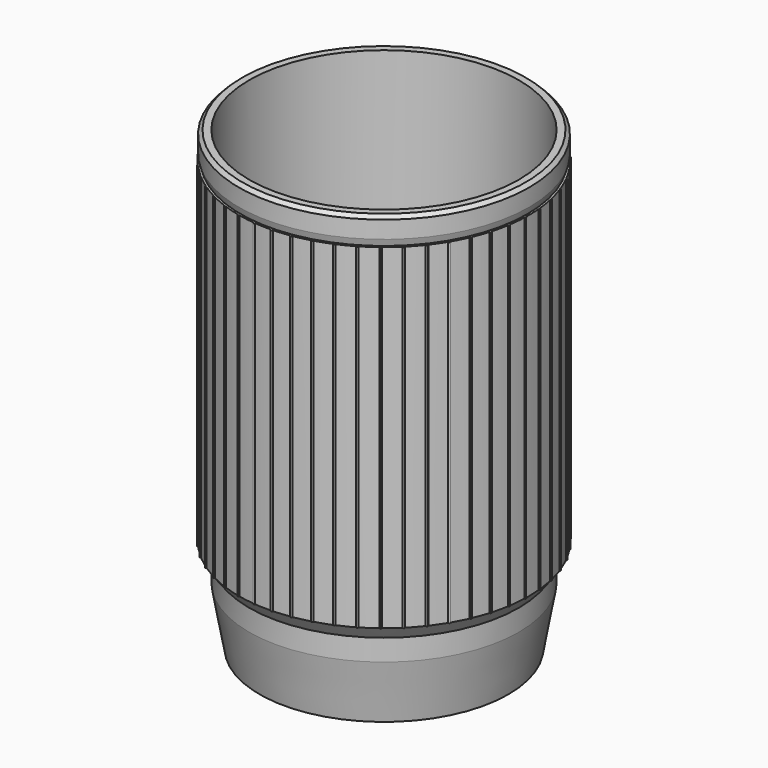
from build123d import *

# Parameters (mm, degrees)
F3_DEPTH = 97
F4_SIZE  = 1


with BuildPart() as f1:
    # F0 (on Front) → F1 (revolve)
    with BuildSketch(Plane.XZ):
        Polygon((0, -2), (0, 0), (-28.3, 0), (-28.3, 9.8), (-33.3, 14.8), (-36, 14.8), (-36, 21), (-39, 24.981719), (-39, 130), (-42, 130), (-42, 124), (-41.4, 122), (-42, 122), (-42, 24.981719), (-39, 21), (-39, 14.8), (-36, -2), (-28.3, -2), align=None)
    revolve(axis=Axis((0, 0, -1), (0, 0, -1)))

    # F2 (on face) → F3 (join)
    with BuildSketch(Plane.XY.offset(122)):
        with BuildLine():
            ThreePointArc((21.5558, -36.218189), (21.545517, -36.141676), (21.515398, -36.070593))
            ThreePointArc((21.515398, -36.070593), (21.266, -36.218189), (21.015591, -36.364061))
            ThreePointArc((21.015591, -36.364061), (21.341549, -36.497968), (21.5558, -36.218189))
        make_face()
        with BuildLine():
            ThreePointArc((21.015591, -36.364061), (21.266, -36.218189), (21.515398, -36.070593))
            ThreePointArc((21.515398, -36.070593), (21.119265, -35.968284), (21.015591, -36.364061))
        make_face()
        with BuildLine():
            ThreePointArc((25.407502, -33.443368), (25.637654, -33.267261), (25.866586, -33.089571))
            ThreePointArc((25.866586, -33.089571), (25.460755, -33.037718), (25.407502, -33.443368))
        make_face()
        with BuildLine():
            ThreePointArc((25.927454, -33.267261), (25.911815, -33.173348), (25.866586, -33.089571))
            ThreePointArc((25.866586, -33.089571), (25.637654, -33.267261), (25.407502, -33.443368))
            ThreePointArc((25.407502, -33.443368), (25.730621, -33.541744), (25.927454, -33.267261))
        make_face()
        with BuildLine():
            ThreePointArc((29.398722, -29.995252), (29.604987, -29.791689), (29.809844, -29.586707))
            ThreePointArc((29.809844, -29.586707), (29.400713, -29.586127), (29.398722, -29.995252))
        make_face()
        with BuildLine():
            ThreePointArc((29.894787, -29.791689), (29.87271, -29.680746), (29.809844, -29.586707))
            ThreePointArc((29.809844, -29.586707), (29.604987, -29.791689), (29.398722, -29.995252))
            ThreePointArc((29.398722, -29.995252), (29.715005, -30.059793), (29.894787, -29.791689))
        make_face()
        with BuildLine():
            ThreePointArc((32.926306, -26.074094), (33.105432, -25.846284), (33.282982, -25.617243))
            ThreePointArc((33.282982, -25.617243), (32.877005, -25.667945), (32.926306, -26.074094))
        make_face()
        with BuildLine():
            ThreePointArc((33.395231, -25.846284), (33.36566, -25.71875), (33.282982, -25.617243))
            ThreePointArc((33.282982, -25.617243), (33.105432, -25.846284), (32.926306, -26.074094))
            ThreePointArc((32.926306, -26.074094), (33.232067, -26.10695), (33.395231, -25.846284))
        make_face()
        with BuildLine():
            ThreePointArc((35.934623, -21.741732), (36.083784, -21.493267), (36.231227, -21.24378))
            ThreePointArc((36.231227, -21.24378), (35.834806, -21.344964), (35.934623, -21.741732))
        make_face()
        with BuildLine():
            ThreePointArc((35.934623, -21.741732), (36.226537, -21.745468), (36.373583, -21.493267))
            ThreePointArc((36.373583, -21.493267), (36.335491, -21.349645), (36.231227, -21.24378))
            ThreePointArc((36.231227, -21.24378), (36.083784, -21.493267), (35.934623, -21.741732))
        make_face()
        with BuildLine():
            ThreePointArc((38.608085, -16.535289), (38.227472, -16.68536), (38.376229, -17.066489))
            ThreePointArc((38.376229, -17.066489), (38.493073, -16.801289), (38.608085, -16.535289))
        make_face()
        with BuildLine():
            ThreePointArc((38.608085, -16.535289), (38.493073, -16.801289), (38.376229, -17.066489))
            ThreePointArc((38.376229, -17.066489), (38.65138, -17.044029), (38.782873, -16.801289))
            ThreePointArc((38.782873, -16.801289), (38.735265, -16.642145), (38.608085, -16.535289))
        make_face()
        with BuildLine():
            ThreePointArc((40.37607, -11.566027), (40.295304, -11.844345), (40.212619, -12.122098))
            ThreePointArc((40.212619, -12.122098), (40.46854, -12.076665), (40.585103, -11.844345))
            ThreePointArc((40.585103, -11.844345), (40.527025, -11.670308), (40.37607, -11.566027))
        make_face()
        with BuildLine():
            ThreePointArc((40.37607, -11.566027), (40.017267, -11.762619), (40.212619, -12.122098))
            ThreePointArc((40.212619, -12.122098), (40.295304, -11.844345), (40.37607, -11.566027))
        make_face()
        with BuildLine():
            ThreePointArc((41.5073, -6.414362), (41.462053, -6.700608), (41.414832, -6.986534))
            ThreePointArc((41.414832, -6.986534), (41.649535, -6.921592), (41.751853, -6.700608))
            ThreePointArc((41.751853, -6.700608), (41.682389, -6.512364), (41.5073, -6.414362))
        make_face()
        with BuildLine():
            ThreePointArc((41.5073, -6.414362), (41.175966, -6.654374), (41.414832, -6.986534))
            ThreePointArc((41.414832, -6.986534), (41.462053, -6.700608), (41.5073, -6.414362))
        make_face()
        with BuildLine():
            ThreePointArc((41.983935, -1.161539), (41.685295, -1.441185), (41.963909, -1.740788))
            ThreePointArc((41.963909, -1.740788), (41.974921, -1.451198), (41.983935, -1.161539))
        make_face()
        with BuildLine():
            ThreePointArc((41.798459, 4.109602), (41.537222, 3.794732), (41.85119, 3.532411))
            ThreePointArc((41.85119, 3.532411), (41.82582, 3.821098), (41.798459, 4.109602))
        make_face()
        with BuildLine():
            ThreePointArc((34.648453, 23.737833), (34.811418, 23.498196), (34.972725, 23.25744))
            ThreePointArc((34.972725, 23.25744), (35.067084, 23.361746), (35.101217, 23.498196))
            ThreePointArc((35.101217, 23.498196), (34.946984, 23.754331), (34.648453, 23.737833))
        make_face()
        with BuildLine():
            ThreePointArc((37.350379, 19.208051), (37.482024, 18.949878), (37.611885, 18.690803))
            ThreePointArc((37.611885, 18.690803), (37.728618, 18.797645), (37.771823, 18.949878))
            ThreePointArc((37.771823, 18.949878), (37.633406, 19.196996), (37.350379, 19.208051))
        make_face()
        with BuildLine():
            ThreePointArc((39.463267, 14.375346), (39.288543, 14.005401), (39.657883, 13.829401))
            ThreePointArc((39.657883, 13.829401), (39.561517, 14.102709), (39.463267, 14.375346))
        make_face()
        with BuildLine():
            ThreePointArc((40.953796, 9.315933), (40.734083, 8.970804), (41.078452, 8.749902))
            ThreePointArc((41.078452, 8.749902), (41.0171, 9.033132), (40.953796, 9.315933))
        make_face()
        with BuildLine():
            ThreePointArc((39.463267, 14.375346), (39.561517, 14.102709), (39.657883, 13.829401))
            ThreePointArc((39.657883, 13.829401), (39.798065, 13.935292), (39.851316, 14.102709))
            ThreePointArc((39.851316, 14.102709), (39.728116, 14.339834), (39.463267, 14.375346))
        make_face()
        with BuildLine():
            ThreePointArc((37.350379, 19.208051), (37.223399, 18.819124), (37.611885, 18.690803))
            ThreePointArc((37.611885, 18.690803), (37.482024, 18.949878), (37.350379, 19.208051))
        make_face()
        with BuildLine():
            ThreePointArc((40.953796, 9.315933), (41.0171, 9.033132), (41.078452, 8.749902))
            ThreePointArc((41.078452, 8.749902), (41.24267, 8.851193), (41.3069, 9.033132))
            ThreePointArc((41.3069, 9.033132), (41.198261, 9.259328), (40.953796, 9.315933))
        make_face()
        with BuildLine():
            ThreePointArc((41.798459, 4.109602), (41.82582, 3.821098), (41.85119, 3.532411))
            ThreePointArc((41.85119, 3.532411), (42.03952, 3.625354), (42.115619, 3.821098))
            ThreePointArc((42.115619, 3.821098), (42.020826, 4.035472), (41.798459, 4.109602))
        make_face()
        with BuildLine():
            ThreePointArc((41.983935, -1.161539), (41.974921, -1.451198), (41.963909, -1.740788))
            ThreePointArc((41.963909, -1.740788), (42.175909, -1.659974), (42.264721, -1.451198))
            ThreePointArc((42.264721, -1.451198), (42.183003, -1.249491), (41.983935, -1.161539))
        make_face()
        with BuildLine():
            ThreePointArc((34.648453, 23.737833), (34.571219, 23.336059), (34.972725, 23.25744))
            ThreePointArc((34.972725, 23.25744), (34.811418, 23.498196), (34.648453, 23.737833))
        make_face()
        with BuildLine():
            ThreePointArc((27.656549, 31.608785), (27.873989, 31.417204), (28.090103, 31.224127))
            ThreePointArc((28.090103, 31.224127), (28.144741, 31.313874), (28.163789, 31.417204))
            ThreePointArc((28.163789, 31.417204), (27.976384, 31.688311), (27.656549, 31.608785))
        make_face()
        with BuildLine():
            ThreePointArc((27.656549, 31.608785), (27.681659, 31.200426), (28.090103, 31.224127))
            ThreePointArc((28.090103, 31.224127), (27.873989, 31.417204), (27.656549, 31.608785))
        make_face()
        with BuildLine():
            ThreePointArc((31.4001, 27.893256), (31.373831, 27.48497), (31.782025, 27.457293))
            ThreePointArc((31.782025, 27.457293), (31.591814, 27.675933), (31.4001, 27.893256))
        make_face()
        with BuildLine():
            ThreePointArc((31.4001, 27.893256), (31.591814, 27.675933), (31.782025, 27.457293))
            ThreePointArc((31.782025, 27.457293), (31.855544, 27.555806), (31.881614, 27.675933))
            ThreePointArc((31.881614, 27.675933), (31.71103, 27.940075), (31.4001, 27.893256))
        make_face()
        with BuildLine():
            ThreePointArc((23.476837, 34.825825), (23.552931, 34.423833), (23.955183, 34.498539))
            ThreePointArc((23.955183, 34.498539), (23.716575, 34.663007), (23.476837, 34.825825))
        make_face()
        with BuildLine():
            ThreePointArc((23.476837, 34.825825), (23.716575, 34.663007), (23.955183, 34.498539))
            ThreePointArc((23.955183, 34.498539), (23.99328, 34.576882), (24.006374, 34.663007))
            ThreePointArc((24.006374, 34.663007), (23.801745, 34.940009), (23.476837, 34.825825))
        make_face()
        with BuildLine():
            ThreePointArc((18.926882, 37.493641), (19.052758, 37.104356), (19.442476, 37.228889))
            ThreePointArc((19.442476, 37.228889), (19.185136, 37.362154), (18.926882, 37.493641))
        make_face()
        with BuildLine():
            ThreePointArc((18.926882, 37.493641), (19.185136, 37.362154), (19.442476, 37.228889))
            ThreePointArc((19.442476, 37.228889), (19.466703, 37.293573), (19.474935, 37.362154))
            ThreePointArc((19.474935, 37.362154), (19.252745, 37.643957), (18.926882, 37.493641))
        make_face()
        with BuildLine():
            ThreePointArc((14.078439, 39.57016), (14.252113, 39.199721), (14.623149, 39.372116))
            ThreePointArc((14.623149, 39.372116), (14.351135, 39.472078), (14.078439, 39.57016))
        make_face()
        with BuildLine():
            ThreePointArc((14.078439, 39.57016), (14.351135, 39.472078), (14.623149, 39.372116))
            ThreePointArc((14.623149, 39.372116), (14.636454, 39.421312), (14.640935, 39.472078))
            ThreePointArc((14.640935, 39.472078), (14.400917, 39.757569), (14.078439, 39.57016))
        make_face()
        with BuildLine():
            ThreePointArc((9.00797, 41.022634), (9.226703, 40.676883), (9.573206, 40.894422))
            ThreePointArc((9.573206, 40.894422), (9.290809, 40.959503), (9.00797, 41.022634))
        make_face()
        with BuildLine():
            ThreePointArc((9.00797, 41.022634), (9.290809, 40.959503), (9.573206, 40.894422))
            ThreePointArc((9.573206, 40.894422), (9.578752, 40.926752), (9.580609, 40.959503))
            ThreePointArc((9.580609, 40.959503), (9.322566, 41.247557), (9.00797, 41.022634))
        make_face()
        with BuildLine():
            ThreePointArc((-0.897493, 41.983215), (-0.897516, 41.986812), (-0.897583, 41.990408))
            ThreePointArc((-0.897583, 41.990408), (-1.187293, 41.983215), (-1.476946, 41.974023))
            ThreePointArc((-1.476946, 41.974023), (-1.182696, 41.693452), (-0.897493, 41.983215))
        make_face()
        with BuildLine():
            ThreePointArc((-1.476946, 41.974023), (-1.187293, 41.983215), (-0.897583, 41.990408))
            ThreePointArc((-0.897583, 41.990408), (-1.195485, 42.272898), (-1.476946, 41.974023))
        make_face()
        with BuildLine():
            ThreePointArc((3.79544, 41.828156), (4.055782, 41.512546), (4.372289, 41.771798))
            ThreePointArc((4.372289, 41.771798), (4.083962, 41.800972), (3.79544, 41.828156))
        make_face()
        with BuildLine():
            ThreePointArc((3.79544, 41.828156), (4.083962, 41.800972), (4.372289, 41.771798))
            ThreePointArc((4.372289, 41.771798), (4.373393, 41.786366), (4.373761, 41.800972))
            ThreePointArc((4.373761, 41.800972), (4.097569, 42.090452), (3.79544, 41.828156))
        make_face()
        with BuildLine():
            ThreePointArc((-16.26917, 38.597934), (-16.274999, 38.655766), (-16.292251, 38.711272))
            ThreePointArc((-16.292251, 38.711272), (-16.558969, 38.597934), (-16.824898, 38.48276))
            ThreePointArc((-16.824898, 38.48276), (-16.500158, 38.314165), (-16.26917, 38.597934))
        make_face()
        with BuildLine():
            ThreePointArc((-16.824898, 38.48276), (-16.558969, 38.597934), (-16.292251, 38.711272))
            ThreePointArc((-16.292251, 38.711272), (-16.673226, 38.86426), (-16.824898, 38.48276))
        make_face()
        with BuildLine():
            ThreePointArc((-11.300993, 40.368967), (-11.303751, 40.408854), (-11.311973, 40.447982))
            ThreePointArc((-11.311973, 40.447982), (-11.590793, 40.368967), (-11.86906, 40.288031))
            ThreePointArc((-11.86906, 40.288031), (-11.549916, 40.082065), (-11.300993, 40.368967))
        make_face()
        with BuildLine():
            ThreePointArc((-11.86906, 40.288031), (-11.590793, 40.368967), (-11.311973, 40.447982))
            ThreePointArc((-11.311973, 40.447982), (-11.670769, 40.647513), (-11.86906, 40.288031))
        make_face()
        with BuildLine():
            ThreePointArc((-6.150023, 41.503358), (-6.150843, 41.525142), (-6.153298, 41.546804))
            ThreePointArc((-6.153298, 41.546804), (-6.439823, 41.503358), (-6.72604, 41.457935))
            ThreePointArc((-6.72604, 41.457935), (-6.417041, 41.214455), (-6.150023, 41.503358))
        make_face()
        with BuildLine():
            ThreePointArc((-6.72604, 41.457935), (-6.439823, 41.503358), (-6.153298, 41.546804))
            ThreePointArc((-6.153298, 41.546804), (-6.484257, 41.78973), (-6.72604, 41.457935))
        make_face()
        with BuildLine():
            ThreePointArc((-29.315188, 29.791689), (-29.336884, 29.901707), (-29.398722, 29.995252))
            ThreePointArc((-29.398722, 29.995252), (-29.604987, 29.791689), (-29.809844, 29.586707))
            ThreePointArc((-29.809844, 29.586707), (-29.494045, 29.523966), (-29.315188, 29.791689))
        make_face()
        with BuildLine():
            ThreePointArc((-29.809844, 29.586707), (-29.604987, 29.791689), (-29.398722, 29.995252))
            ThreePointArc((-29.398722, 29.995252), (-29.809261, 29.997251), (-29.809844, 29.586707))
        make_face()
        with BuildLine():
            ThreePointArc((-25.347855, 33.267261), (-25.363172, 33.360228), (-25.407502, 33.443368))
            ThreePointArc((-25.407502, 33.443368), (-25.637654, 33.267261), (-25.866586, 33.089571))
            ThreePointArc((-25.866586, 33.089571), (-25.543741, 32.993101), (-25.347855, 33.267261))
        make_face()
        with BuildLine():
            ThreePointArc((-25.866586, 33.089571), (-25.637654, 33.267261), (-25.407502, 33.443368))
            ThreePointArc((-25.407502, 33.443368), (-25.814554, 33.496805), (-25.866586, 33.089571))
        make_face()
        with BuildLine():
            ThreePointArc((-20.976201, 36.218189), (-20.986222, 36.293737), (-21.015591, 36.364061))
            ThreePointArc((-21.015591, 36.364061), (-21.266, 36.218189), (-21.515398, 36.070593))
            ThreePointArc((-21.515398, 36.070593), (-21.189487, 35.938673), (-20.976201, 36.218189))
        make_face()
        with BuildLine():
            ThreePointArc((-21.515398, 36.070593), (-21.266, 36.218189), (-21.015591, 36.364061))
            ThreePointArc((-21.015591, 36.364061), (-21.412736, 36.468094), (-21.515398, 36.070593))
        make_face()
        with BuildLine():
            ThreePointArc((-33.282982, 25.617243), (-33.105432, 25.846284), (-32.926306, 26.074094))
            ThreePointArc((-32.926306, 26.074094), (-33.333859, 26.024623), (-33.282982, 25.617243))
        make_face()
        with BuildLine():
            ThreePointArc((-32.815633, 25.846284), (-32.844765, 25.972919), (-32.926306, 26.074094))
            ThreePointArc((-32.926306, 26.074094), (-33.105432, 25.846284), (-33.282982, 25.617243))
            ThreePointArc((-33.282982, 25.617243), (-32.977898, 25.586055), (-32.815633, 25.846284))
        make_face()
        with BuildLine():
            ThreePointArc((-35.934623, 21.741732), (-36.083784, 21.493267), (-36.231227, 21.24378))
            ThreePointArc((-36.231227, 21.24378), (-35.940162, 21.24156), (-35.793985, 21.493267))
            ThreePointArc((-35.793985, 21.493267), (-35.831583, 21.63602), (-35.934623, 21.741732))
        make_face()
        with BuildLine():
            ThreePointArc((-35.934623, 21.741732), (-36.332761, 21.64157), (-36.231227, 21.24378))
            ThreePointArc((-36.231227, 21.24378), (-36.083784, 21.493267), (-35.934623, 21.741732))
        make_face()
        with BuildLine():
            ThreePointArc((-38.376229, 17.066489), (-38.758675, 16.917218), (-38.608085, 16.535289))
            ThreePointArc((-38.608085, 16.535289), (-38.493073, 16.801289), (-38.376229, 17.066489))
        make_face()
        with BuildLine():
            ThreePointArc((-38.376229, 17.066489), (-38.493073, 16.801289), (-38.608085, 16.535289))
            ThreePointArc((-38.608085, 16.535289), (-38.33393, 16.559097), (-38.203274, 16.801289))
            ThreePointArc((-38.203274, 16.801289), (-38.250334, 16.959596), (-38.376229, 17.066489))
        make_face()
        with BuildLine():
            ThreePointArc((-40.212619, 12.122098), (-40.295304, 11.844345), (-40.37607, 11.566027))
            ThreePointArc((-40.37607, 11.566027), (-40.121267, 11.612623), (-40.005504, 11.844345))
            ThreePointArc((-40.005504, 11.844345), (-40.062983, 12.017581), (-40.212619, 12.122098))
        make_face()
        with BuildLine():
            ThreePointArc((-40.212619, 12.122098), (-40.573341, 11.92607), (-40.37607, 11.566027))
            ThreePointArc((-40.37607, 11.566027), (-40.295304, 11.844345), (-40.212619, 12.122098))
        make_face()
        with BuildLine():
            ThreePointArc((-41.414832, 6.986534), (-41.462053, 6.700608), (-41.5073, 6.414362))
            ThreePointArc((-41.5073, 6.414362), (-41.27381, 6.480271), (-41.172254, 6.700608))
            ThreePointArc((-41.172254, 6.700608), (-41.241069, 6.88809), (-41.414832, 6.986534))
        make_face()
        with BuildLine():
            ThreePointArc((-41.414832, 6.986534), (-41.748141, 6.746842), (-41.5073, 6.414362))
            ThreePointArc((-41.5073, 6.414362), (-41.462053, 6.700608), (-41.414832, 6.986534))
        make_face()
        with BuildLine():
            ThreePointArc((-41.963909, 1.740788), (-42.264548, 1.461211), (-41.983935, 1.161539))
            ThreePointArc((-41.983935, 1.161539), (-41.974921, 1.451198), (-41.963909, 1.740788))
        make_face()
        with BuildLine():
            ThreePointArc((-41.963909, 1.740788), (-41.974921, 1.451198), (-41.983935, 1.161539))
            ThreePointArc((-41.983935, 1.161539), (-41.773214, 1.243117), (-41.685122, 1.451198))
            ThreePointArc((-41.685122, 1.451198), (-41.766145, 1.652186), (-41.963909, 1.740788))
        make_face()
        with BuildLine():
            ThreePointArc((-41.85119, -3.532411), (-42.114417, -3.847463), (-41.798459, -4.109602))
            ThreePointArc((-41.798459, -4.109602), (-41.82582, -3.821098), (-41.85119, -3.532411))
        make_face()
        with BuildLine():
            ThreePointArc((-41.85119, -3.532411), (-41.82582, -3.821098), (-41.798459, -4.109602))
            ThreePointArc((-41.798459, -4.109602), (-41.611445, -4.016103), (-41.536021, -3.821098))
            ThreePointArc((-41.536021, -3.821098), (-41.630076, -3.607397), (-41.85119, -3.532411))
        make_face()
        with BuildLine():
            ThreePointArc((-41.078452, -8.749902), (-41.300118, -9.095461), (-40.953796, -9.315933))
            ThreePointArc((-40.953796, -9.315933), (-41.0171, -9.033132), (-41.078452, -8.749902))
        make_face()
        with BuildLine():
            ThreePointArc((-41.078452, -8.749902), (-41.0171, -9.033132), (-40.953796, -9.315933))
            ThreePointArc((-40.953796, -9.315933), (-40.790904, -9.214293), (-40.727301, -9.033132))
            ThreePointArc((-40.727301, -9.033132), (-40.835161, -8.807563), (-41.078452, -8.749902))
        make_face()
        with BuildLine():
            ThreePointArc((-39.657883, -13.829401), (-39.83449, -14.200018), (-39.463267, -14.375346))
            ThreePointArc((-39.463267, -14.375346), (-39.561517, -14.102709), (-39.657883, -13.829401))
        make_face()
        with BuildLine():
            ThreePointArc((-39.657883, -13.829401), (-39.561517, -14.102709), (-39.463267, -14.375346))
            ThreePointArc((-39.463267, -14.375346), (-39.324392, -14.269309), (-39.271717, -14.102709))
            ThreePointArc((-39.271717, -14.102709), (-39.3941, -13.866161), (-39.657883, -13.829401))
        make_face()
        with BuildLine():
            ThreePointArc((-37.611885, -18.690803), (-37.740649, -19.080632), (-37.350379, -19.208051))
            ThreePointArc((-37.350379, -19.208051), (-37.482024, -18.949878), (-37.611885, -18.690803))
        make_face()
        with BuildLine():
            ThreePointArc((-37.611885, -18.690803), (-37.482024, -18.949878), (-37.350379, -19.208051))
            ThreePointArc((-37.350379, -19.208051), (-37.234906, -19.10126), (-37.192225, -18.949878))
            ThreePointArc((-37.192225, -18.949878), (-37.329791, -18.703284), (-37.611885, -18.690803))
        make_face()
        with BuildLine():
            ThreePointArc((-34.972725, -23.25744), (-34.811418, -23.498196), (-34.648453, -23.737833))
            ThreePointArc((-34.648453, -23.737833), (-34.555282, -23.633762), (-34.521618, -23.498196))
            ThreePointArc((-34.521618, -23.498196), (-34.674968, -23.24253), (-34.972725, -23.25744))
        make_face()
        with BuildLine():
            ThreePointArc((-34.972725, -23.25744), (-35.051616, -23.660333), (-34.648453, -23.737833))
            ThreePointArc((-34.648453, -23.737833), (-34.811418, -23.498196), (-34.972725, -23.25744))
        make_face()
        with BuildLine():
            ThreePointArc((16.848768, -38.597934), (16.842738, -38.539123), (16.824898, -38.48276))
            ThreePointArc((16.824898, -38.48276), (16.558969, -38.597934), (16.292251, -38.711272))
            ThreePointArc((16.292251, -38.711272), (16.616801, -38.881905), (16.848768, -38.597934))
        make_face()
        with BuildLine():
            ThreePointArc((16.292251, -38.711272), (16.558969, -38.597934), (16.824898, -38.48276))
            ThreePointArc((16.824898, -38.48276), (16.444712, -38.331609), (16.292251, -38.711272))
        make_face()
        with BuildLine():
            ThreePointArc((11.880592, -40.368967), (11.877694, -40.32809), (11.86906, -40.288031))
            ThreePointArc((11.86906, -40.288031), (11.590793, -40.368967), (11.311973, -40.447982))
            ThreePointArc((11.311973, -40.447982), (11.63068, -40.656009), (11.880592, -40.368967))
        make_face()
        with BuildLine():
            ThreePointArc((11.311973, -40.447982), (11.590793, -40.368967), (11.86906, -40.288031))
            ThreePointArc((11.86906, -40.288031), (11.510816, -40.090422), (11.311973, -40.447982))
        make_face()
        with BuildLine():
            ThreePointArc((-4.372289, -41.771798), (-4.083962, -41.800972), (-3.79544, -41.828156))
            ThreePointArc((-3.79544, -41.828156), (-3.794482, -41.814579), (-3.794162, -41.800972))
            ThreePointArc((-3.794162, -41.800972), (-4.069356, -41.511541), (-4.372289, -41.771798))
        make_face()
        with BuildLine():
            ThreePointArc((-4.372289, -41.771798), (-4.112141, -42.089398), (-3.79544, -41.828156))
            ThreePointArc((-3.79544, -41.828156), (-4.083962, -41.800972), (-4.372289, -41.771798))
        make_face()
        with BuildLine():
            ThreePointArc((0.897583, -41.990408), (1.187293, -41.983215), (1.476946, -41.974023))
            ThreePointArc((1.476946, -41.974023), (1.1791, -41.693531), (0.897583, -41.990408))
        make_face()
        with BuildLine():
            ThreePointArc((1.477092, -41.983215), (1.477055, -41.978619), (1.476946, -41.974023))
            ThreePointArc((1.476946, -41.974023), (1.187293, -41.983215), (0.897583, -41.990408))
            ThreePointArc((0.897583, -41.990408), (1.190889, -42.272992), (1.477092, -41.983215))
        make_face()
        with BuildLine():
            ThreePointArc((6.153298, -41.546804), (6.439823, -41.503358), (6.72604, -41.457935))
            ThreePointArc((6.72604, -41.457935), (6.395388, -41.216985), (6.153298, -41.546804))
        make_face()
        with BuildLine():
            ThreePointArc((6.729622, -41.503358), (6.728725, -41.480576), (6.72604, -41.457935))
            ThreePointArc((6.72604, -41.457935), (6.439823, -41.503358), (6.153298, -41.546804))
            ThreePointArc((6.153298, -41.546804), (6.461607, -41.792337), (6.729622, -41.503358))
        make_face()
        with BuildLine():
            ThreePointArc((-9.573206, -40.894422), (-9.354916, -41.242123), (-9.00797, -41.022634))
            ThreePointArc((-9.00797, -41.022634), (-9.290809, -40.959503), (-9.573206, -40.894422))
        make_face()
        with BuildLine():
            ThreePointArc((-9.573206, -40.894422), (-9.290809, -40.959503), (-9.00797, -41.022634))
            ThreePointArc((-9.00797, -41.022634), (-9.002755, -40.991259), (-9.00101, -40.959503))
            ThreePointArc((-9.00101, -40.959503), (-9.258059, -40.67156), (-9.573206, -40.894422))
        make_face()
        with BuildLine():
            ThreePointArc((-14.623149, -39.372116), (-14.450158, -39.744434), (-14.078439, -39.57016))
            ThreePointArc((-14.078439, -39.57016), (-14.351135, -39.472078), (-14.623149, -39.372116))
        make_face()
        with BuildLine():
            ThreePointArc((-14.623149, -39.372116), (-14.351135, -39.472078), (-14.078439, -39.57016))
            ThreePointArc((-14.078439, -39.57016), (-14.065644, -39.521859), (-14.061336, -39.472078))
            ThreePointArc((-14.061336, -39.472078), (-14.30037, -39.186759), (-14.623149, -39.372116))
        make_face()
        with BuildLine():
            ThreePointArc((-31.782025, -27.457293), (-31.809797, -27.866897), (-31.4001, -27.893256))
            ThreePointArc((-31.4001, -27.893256), (-31.591814, -27.675933), (-31.782025, -27.457293))
        make_face()
        with BuildLine():
            ThreePointArc((-31.782025, -27.457293), (-31.591814, -27.675933), (-31.4001, -27.893256))
            ThreePointArc((-31.4001, -27.893256), (-31.327672, -27.795149), (-31.302015, -27.675933))
            ThreePointArc((-31.302015, -27.675933), (-31.471688, -27.412204), (-31.782025, -27.457293))
        make_face()
        with BuildLine():
            ThreePointArc((-28.090103, -31.224127), (-28.066319, -31.633982), (-27.656549, -31.608785))
            ThreePointArc((-27.656549, -31.608785), (-27.873989, -31.417204), (-28.090103, -31.224127))
        make_face()
        with BuildLine():
            ThreePointArc((-28.090103, -31.224127), (-27.873989, -31.417204), (-27.656549, -31.608785))
            ThreePointArc((-27.656549, -31.608785), (-27.602882, -31.519599), (-27.58419, -31.417204))
            ThreePointArc((-27.58419, -31.417204), (-27.770659, -31.146452), (-28.090103, -31.224127))
        make_face()
        with BuildLine():
            ThreePointArc((-23.955183, -34.498539), (-23.716575, -34.663007), (-23.476837, -34.825825))
            ThreePointArc((-23.476837, -34.825825), (-23.439573, -34.748178), (-23.426775, -34.663007))
            ThreePointArc((-23.426775, -34.663007), (-23.630449, -34.386302), (-23.955183, -34.498539))
        make_face()
        with BuildLine():
            ThreePointArc((-23.955183, -34.498539), (-23.880219, -34.902182), (-23.476837, -34.825825))
            ThreePointArc((-23.476837, -34.825825), (-23.716575, -34.663007), (-23.955183, -34.498539))
        make_face()
        with BuildLine():
            ThreePointArc((-19.442476, -37.228889), (-19.185136, -37.362154), (-18.926882, -37.493641))
            ThreePointArc((-18.926882, -37.493641), (-18.903333, -37.429763), (-18.895336, -37.362154))
            ThreePointArc((-18.895336, -37.362154), (-19.116555, -37.080587), (-19.442476, -37.228889))
        make_face()
        with BuildLine():
            ThreePointArc((-19.442476, -37.228889), (-19.317513, -37.619953), (-18.926882, -37.493641))
            ThreePointArc((-18.926882, -37.493641), (-19.185136, -37.362154), (-19.442476, -37.228889))
        make_face()
    extrude(amount=-F3_DEPTH)

    # F4
    f4_edges = [f1.edges().sort_by_distance(p)[0] for p in [
        (42, 0, 130),
    ]]
    chamfer(f4_edges, length=F4_SIZE)


solid = f1.part
